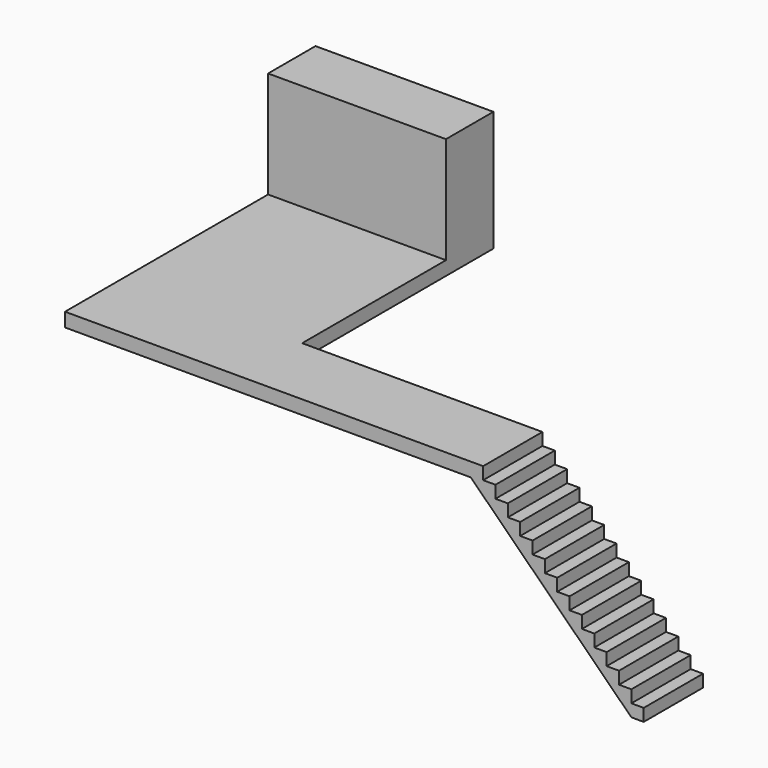
from build123d import *

# Parameters (mm, degrees)
F1_DEPTH = 228.6
F3_DEPTH = 1219.2
F4_W     = 975.36
F4_H     = 1752.6
F5_DEPTH = 2926.08


with BuildPart() as f1:
    # F0 (on Top) → F1 (new body)
    with BuildSketch(Plane.XY):
        Polygon((-1463.04, -2575.56), (1463.04, -2575.56), (5212.08, -2575.56), (5212.08, -1356.36), (1463.04, -1356.36), (1463.04, 2575.56), (-1463.04, 2575.56), align=None)
    extrude(amount=F1_DEPTH)

    # F2 (on face) → F3 (join, through all)
    with BuildSketch(Plane.XZ.offset(2575.56)):
        Polygon((5415.28, 228.6), (5212.08, 228.6), (5212.08, 0), (7853.68, -2616.2), (8056.88, -2616.2), (8056.88, -2413), (7853.68, -2413), (7853.68, -2209.8), (7650.48, -2209.8), (7650.48, -2006.6), (7447.28, -2006.6), (7447.28, -1803.4), (7244.08, -1803.4), (7244.08, -1600.2), (7040.88, -1600.2), (7040.88, -1397), (6837.68, -1397), (6837.68, -1193.8), (6634.48, -1193.8), (6634.48, -990.6), (6431.28, -990.6), (6431.28, -787.4), (6228.08, -787.4), (6228.08, -584.2), (6024.88, -584.2), (6024.88, -381), (5821.68, -381), (5821.68, -177.8), (5618.48, -177.8), (5618.48, 25.4), (5415.28, 25.4), align=None)
    extrude(amount=-F3_DEPTH)

    # F4 (on face) → F5 (join, through all)
    with BuildSketch(Plane.YZ.offset(1463.04)):
        with Locations((2087.88, 1104.9)):
            Rectangle(F4_W, F4_H)
    extrude(amount=-F5_DEPTH)


solid = f1.part
